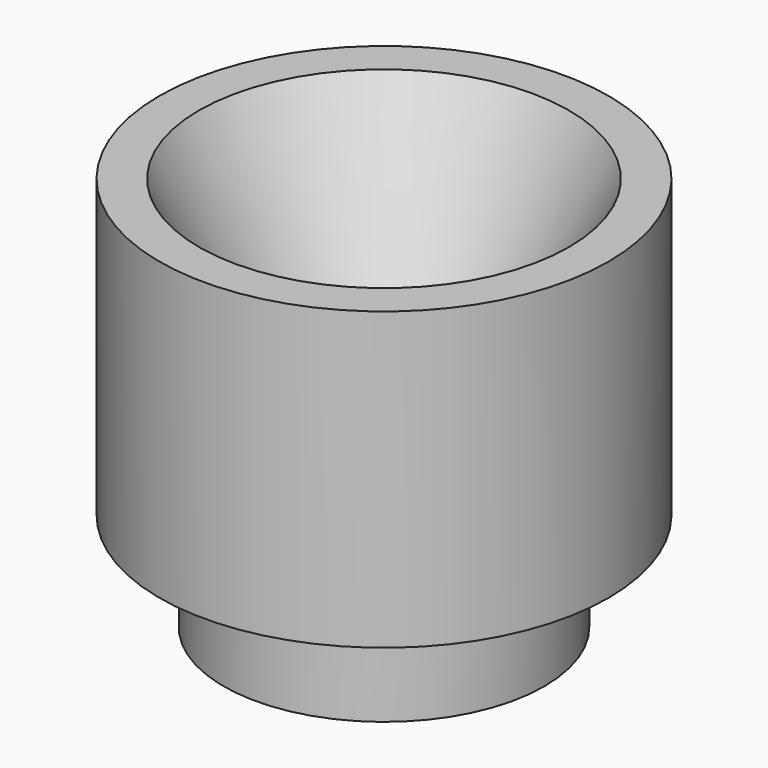
from build123d import *

# Parameters (mm, degrees)
F0_R     = 4.55
F0_R_2   = 1.25
F1_DEPTH = 8
F2_SIZE2 = 2.5
F2_SIZE  = 5
F3_R     = 4.55
F3_R_2   = 3.25
F3_R_3   = 2.075
F3_R_4   = 1.25
F4_DEPTH = 2


with BuildPart() as f1:
    # F0 (on Top) → F1 (new body)
    with BuildSketch(Plane.XY):
        Circle(F0_R)
        Circle(F0_R_2, mode=Mode.SUBTRACT)
    extrude(amount=F1_DEPTH)

    # F2
    f2_edges = [f1.edges().sort_by_distance(p)[0] for p in [
        (-1.25, 0, 8),
    ]]
    f2_side = f1.faces().sort_by_distance((-1.25, 0, 4))[0]
    chamfer(f2_edges, length=F2_SIZE, length2=F2_SIZE2, reference=f2_side)

    # F3 (on face) → F4 (cut)
    with BuildSketch(Plane(origin=(0, 0, 0), x_dir=(1, 0, 0), z_dir=(0, 0, -1))):
        Circle(F3_R)
        Circle(F3_R_2, mode=Mode.SUBTRACT)
        Circle(F3_R_3)
        Circle(F3_R_4, mode=Mode.SUBTRACT)
    extrude(amount=-F4_DEPTH, mode=Mode.SUBTRACT)


solid = f1.part
